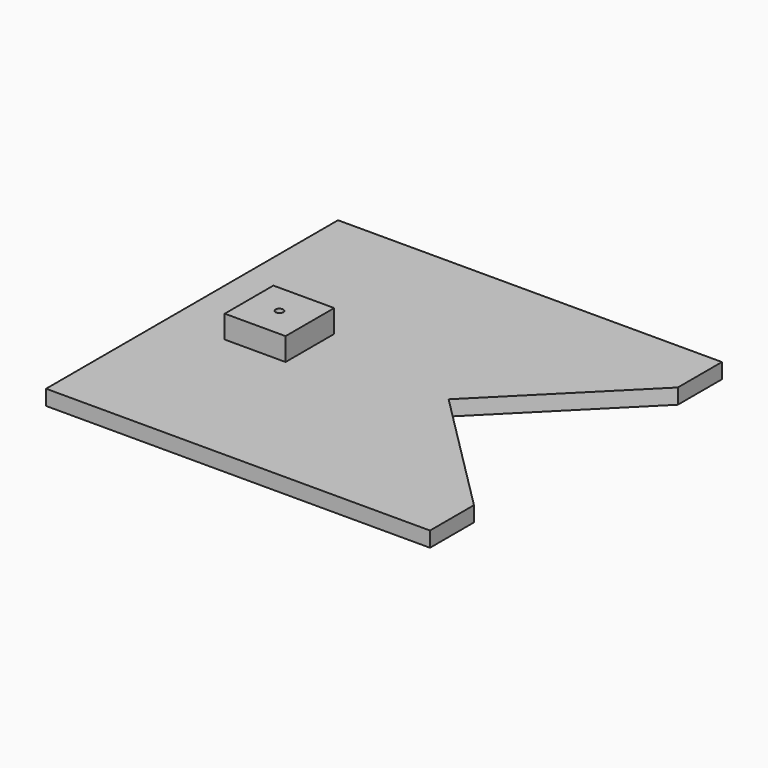
from build123d import *

# Parameters (mm, degrees)
F0_W     = 50.8
F0_H     = 50.8
F0_R     = 3.175
F1_DEPTH = 12.7
F2_DEPTH = 31.75
F3_DEPTH = 19.05


with BuildPart() as f1:
    # F0 (on Top) → F1 (new body)
    with BuildSketch(Plane.XY):
        Polygon((0, 304.8), (0, 0), (320.675, 0), (320.675, 45.903602), (214.3506, 152.339401), (320.675, 258.7752), (320.675, 304.8), align=None)
        with Locations((73.025, 152.4)):
            Rectangle(F0_W, F0_H, mode=Mode.SUBTRACT)
        with Locations((73.025, 152.4)):
            Rectangle(F0_W, F0_H)
        with Locations((73.025, 152.4)):
            Circle(F0_R, mode=Mode.SUBTRACT)
    extrude(amount=F1_DEPTH)

    # F0 (on Top) → F2 (join)
    with BuildSketch(Plane.XY):
        with Locations((73.025, 152.4)):
            Rectangle(F0_W, F0_H)
        with Locations((73.025, 152.4)):
            Circle(F0_R, mode=Mode.SUBTRACT)
    extrude(amount=F2_DEPTH)

    # F0 (on Top) → F3 (join)
    with BuildSketch(Plane.XY):
        with Locations((73.025, 152.4)):
            Rectangle(F0_W, F0_H)
        with Locations((73.025, 152.4)):
            Circle(F0_R, mode=Mode.SUBTRACT)
    extrude(amount=-F3_DEPTH)


solid = f1.part
